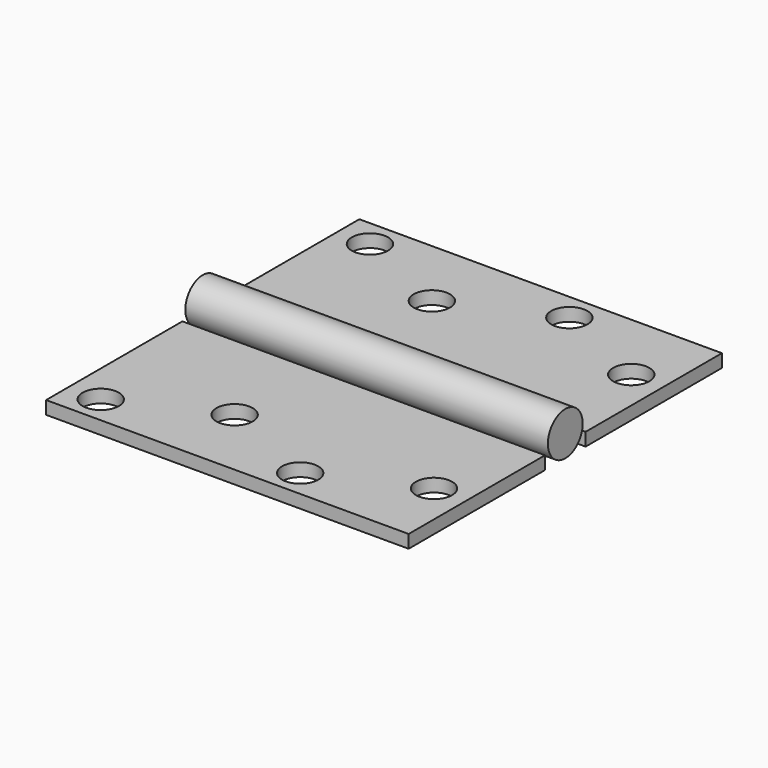
from build123d import *

# Parameters (mm, degrees)
F0_W          = 100
F0_H          = 47
F0_R          = 5
F1_DEPTH      = 3.6
F2_R          = 6
F3_DEPTH      = 50
F3_DEPTH_BACK = 50


with BuildPart() as f1:
    # F0 (on Top) → F1 (new body)
    with BuildSketch(Plane.XY):
        with Locations((0, -23.5)):
            Rectangle(F0_W, F0_H)
        with Locations((-41, -39.4)):
            Circle(F0_R, mode=Mode.SUBTRACT)
        with Locations((-14, -27)):
            Circle(F0_R, mode=Mode.SUBTRACT)
        with Locations((14, -39.4)):
            Circle(F0_R, mode=Mode.SUBTRACT)
        with Locations((41, -27)):
            Circle(F0_R, mode=Mode.SUBTRACT)
        with Locations((0, 37.5)):
            Rectangle(F0_W, F0_H)
        with Locations((-41, 53.4)):
            Circle(F0_R, mode=Mode.SUBTRACT)
        with Locations((-14, 41)):
            Circle(F0_R, mode=Mode.SUBTRACT)
        with Locations((14, 53.4)):
            Circle(F0_R, mode=Mode.SUBTRACT)
        with Locations((41, 41)):
            Circle(F0_R, mode=Mode.SUBTRACT)
    extrude(amount=F1_DEPTH)


with BuildPart() as f3:
    # F2 (on Right) → F3 (new body, two sides)
    with BuildSketch(Plane.YZ) as f3_sk:
        with Locations((7, 6)):
            Circle(F2_R)
    extrude(amount=F3_DEPTH)
    extrude(f3_sk.sketch, amount=-F3_DEPTH_BACK)


solid = Compound([f1.part, f3.part])
